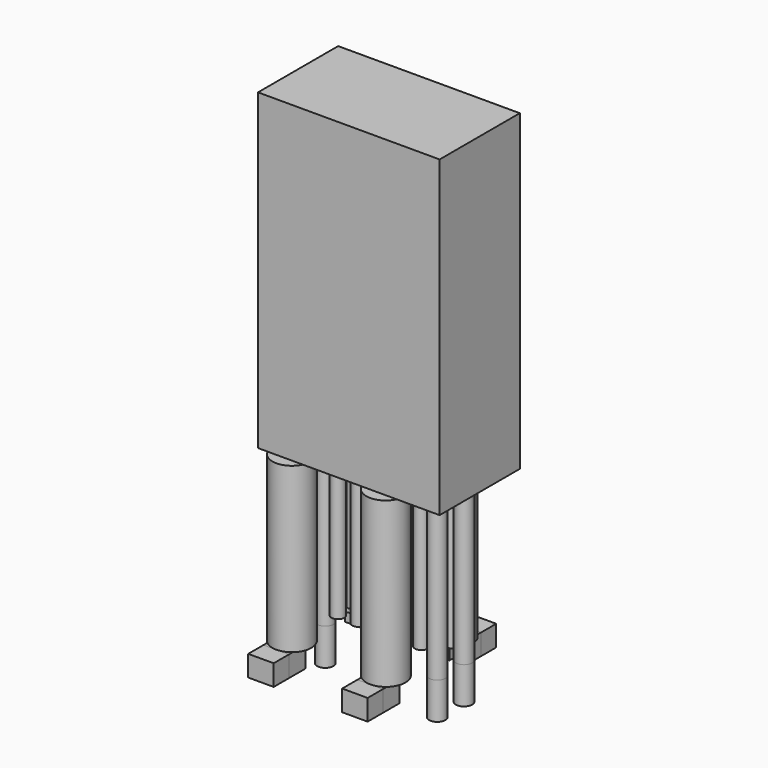
from build123d import *

# Parameters (mm, degrees)
F1_DEPTH = 1.27
F0_W     = 1.5494
F0_H     = 1.161047956
F0_R     = 0.4953
F2_DEPTH = 2.2352
F0_R_2   = 1.18745
F3_DEPTH = 9.9822
F4_DEPTH = 1.27
F5_DEPTH = 1.27
F6_START = 0.9906
F0_R_3   = 0.3937
F6_DEPTH = 8.9916
F8_DEPTH = 19.05
F9_DEPTH = 9.9822


with BuildPart() as f1:
    # F0 (on Top) → F1 (new body)
    with BuildSketch(Plane.XY):
        with BuildLine():
            ThreePointArc((-0.1226388703, 3.7211), (0, 3.72745), (0.1226388703, 3.7211))
            Line((0.1226388703, 3.7211), (0.7747, 3.7211))
            Line((0.7747, 3.7211), (0.7747, 4.882147956))
            Line((0.7747, 4.882147956), (-0.7747, 4.882147956))
            Line((-0.7747, 4.882147956), (-0.7747, 3.7211))
            Line((-0.7747, 3.7211), (-0.1226388703, 3.7211))
        make_face()
    extrude(amount=-F1_DEPTH)


with BuildPart() as f1b:
    # F0 (on Top) → F1, piece 2 (new body)
    with BuildSketch(Plane.XY):
        with BuildLine():
            ThreePointArc((5.5923611297, 3.7211), (5.715, 3.72745), (5.8376388703, 3.7211))
            Line((5.8376388703, 3.7211), (6.4897, 3.7211))
            Line((6.4897, 3.7211), (6.4897, 4.882147956))
            Line((6.4897, 4.882147956), (4.9403, 4.882147956))
            Line((4.9403, 4.882147956), (4.9403, 3.7211))
            Line((4.9403, 3.7211), (5.5923611297, 3.7211))
        make_face()
    extrude(amount=-F1_DEPTH)


with BuildPart() as f1c:
    # F0 (on Top) → F1, piece 3 (new body)
    with BuildSketch(Plane.XY):
        with Locations((0, -4.3142373906)):
            Rectangle(F0_W, F0_H)
    extrude(amount=-F1_DEPTH)


with BuildPart() as f1d:
    # F0 (on Top) → F1, piece 4 (new body)
    with BuildSketch(Plane.XY):
        with Locations((5.715, -4.3142373906)):
            Rectangle(F0_W, F0_H)
    extrude(amount=-F1_DEPTH)


with BuildPart() as f2:
    # F0 (on Top) → F2 (new body)
    with BuildSketch(Plane.XY):
        with Locations((7.62, -1.016)):
            Circle(F0_R)
    extrude(amount=-F2_DEPTH)


with BuildPart() as f2b:
    # F0 (on Top) → F2, piece 2 (new body)
    with BuildSketch(Plane.XY):
        with Locations((7.62, 1.016)):
            Circle(F0_R)
    extrude(amount=-F2_DEPTH)


with BuildPart() as f2c:
    # F0 (on Top) → F2, piece 3 (new body)
    with BuildSketch(Plane.XY):
        Circle(F0_R)
    extrude(amount=-F2_DEPTH)


with BuildPart() as f3:
    # F0 (on Top) → F3 (new body)
    with BuildSketch(Plane.XY):
        with Locations((0, -2.54)):
            Circle(F0_R_2)
        with Locations((5.715, -2.54)):
            Circle(F0_R_2)
        with BuildLine():
            ThreePointArc((5.5923611297, 3.7211), (4.9198868081, 1.6580518641), (6.90245, 2.54))
            ThreePointArc((6.90245, 2.54), (6.5969481359, 3.3351131919), (5.8376388703, 3.7211))
            Line((5.8376388703, 3.7211), (5.5923611297, 3.7211))
        make_face()
        with BuildLine():
            ThreePointArc((-0.1226388703, 3.7211), (-0.7951131919, 1.6580518641), (1.18745, 2.54))
            ThreePointArc((1.18745, 2.54), (0.8819481359, 3.3351131919), (0.1226388703, 3.7211))
            Line((0.1226388703, 3.7211), (-0.1226388703, 3.7211))
        make_face()
    extrude(amount=F3_DEPTH)


with BuildPart() as f4:
    # F4 (new): a face of the model
    f4_faces = [f1.part.faces().sort_by_distance(p)[0] for p in [
        (0.4486694351, 3.7211, -0.635),
    ]]
    extrude(f4_faces, amount=F4_DEPTH)


with BuildPart() as f4b:
    # F4#2 (new): a face of the model
    f4_2_faces = [f1.part.faces().sort_by_distance(p)[0] for p in [
        (-0.4486694351, 3.7211, -0.635),
    ]]
    extrude(f4_2_faces, amount=F4_DEPTH)


with BuildPart() as f4c:
    # F4#3 (new): a face of the model
    f4_3_faces = [f1b.part.faces().sort_by_distance(p)[0] for p in [
        (5.2663305649, 3.7211, -0.635),
    ]]
    extrude(f4_3_faces, amount=F4_DEPTH)


with BuildPart() as f4d:
    # F4#4 (new): a face of the model
    f4_4_faces = [f1b.part.faces().sort_by_distance(p)[0] for p in [
        (6.1636694351, 3.7211, -0.635),
    ]]
    extrude(f4_4_faces, amount=F4_DEPTH)


with BuildPart() as f5:
    # F5 (new): a face of the model
    f5_faces = [f1c.part.faces().sort_by_distance(p)[0] for p in [
        (0, -3.7337134127, -0.635),
    ]]
    extrude(f5_faces, amount=F5_DEPTH)


with BuildPart() as f5b:
    # F5#2 (new): a face of the model
    f5_2_faces = [f1d.part.faces().sort_by_distance(p)[0] for p in [
        (5.715, -3.7337134127, -0.635),
    ]]
    extrude(f5_2_faces, amount=F5_DEPTH)


with BuildPart() as f6:
    # F0 (on Top) → F6 (new body)
    with BuildSketch(Plane.XY.offset(F6_START)):
        with Locations((3.8102645494, -0.635)):
            Circle(F0_R_3)
    extrude(amount=F6_DEPTH)


with BuildPart() as f6b:
    # F0 (on Top) → F6, piece 2 (new body)
    with BuildSketch(Plane.XY.offset(F6_START)):
        with Locations((3.8102645494, 0.6417604301)):
            Circle(F0_R_3)
    extrude(amount=F6_DEPTH)


with BuildPart() as f6c:
    # F0 (on Top) → F6, piece 3 (new body)
    with BuildSketch(Plane.XY.offset(F6_START)):
        with Locations((2.5402645494, 0.6417604301)):
            Circle(F0_R_3)
    extrude(amount=F6_DEPTH)


with BuildPart() as f6d:
    # F0 (on Top) → F6, piece 4 (new body)
    with BuildSketch(Plane.XY.offset(F6_START)):
        with Locations((2.5402645494, -0.635)):
            Circle(F0_R_3)
    extrude(amount=F6_DEPTH)


with BuildPart() as f6e:
    # F0 (on Top) → F6, piece 5 (new body)
    with BuildSketch(Plane.XY.offset(F6_START)):
        with Locations((1.2702645494, -0.635)):
            Circle(F0_R_3)
    extrude(amount=F6_DEPTH)


with BuildPart() as f6f:
    # F0 (on Top) → F6, piece 6 (new body)
    with BuildSketch(Plane.XY.offset(F6_START)):
        with Locations((1.2702645494, 0.635)):
            Circle(F0_R_3)
    extrude(amount=F6_DEPTH)


with BuildPart() as f6g:
    # F0 (on Top) → F6, piece 7 (new body)
    with BuildSketch(Plane.XY.offset(F6_START)):
        with Locations((5.0802645494, -0.635)):
            Circle(F0_R_3)
    extrude(amount=F6_DEPTH)


with BuildPart() as f6h:
    # F0 (on Top) → F6, piece 8 (new body)
    with BuildSketch(Plane.XY.offset(F6_START)):
        with Locations((5.0802645494, 0.6417604301)):
            Circle(F0_R_3)
    extrude(amount=F6_DEPTH)


with BuildPart() as f6i:
    # F0 (on Top) → F6, piece 9 (new body)
    with BuildSketch(Plane.XY.offset(F6_START)):
        with Locations((6.3502645494, 0.6417604301)):
            Circle(F0_R_3)
    extrude(amount=F6_DEPTH)


with BuildPart() as f6j:
    # F0 (on Top) → F6, piece 10 (new body)
    with BuildSketch(Plane.XY.offset(F6_START)):
        with Locations((6.3502645494, -0.635)):
            Circle(F0_R_3)
    extrude(amount=F6_DEPTH)


with BuildPart() as f8:
    # F7 (on face) → F8 (new body)
    with BuildSketch(Plane.XY.offset(9.9822)):
        with BuildLine():
            Line((9.39165, -3.048), (9.39165, 3.048))
            Line((9.39165, 3.048), (1.0733002853, 3.048))
            ThreePointArc((1.0733002853, 3.048), (0, 1.35255), (-1.0733002853, 3.048))
            Line((-1.0733002853, 3.048), (-1.65735, 3.048))
            Line((-1.65735, 3.048), (-1.65735, -3.048))
            Line((-1.65735, -3.048), (9.39165, -3.048))
        make_face()
        with BuildLine():
            ThreePointArc((-1.0733002853, 3.048), (0, 1.35255), (1.0733002853, 3.048))
            Line((1.0733002853, 3.048), (-1.0733002853, 3.048))
        make_face()
    extrude(amount=F8_DEPTH)


with BuildPart() as f9:
    # F0 (on Top) → F9 (new body)
    with BuildSketch(Plane.XY):
        with Locations((7.62, 1.016)):
            Circle(F0_R)
    extrude(amount=F9_DEPTH)


with BuildPart() as f9b:
    # F0 (on Top) → F9, piece 2 (new body)
    with BuildSketch(Plane.XY):
        with Locations((7.62, -1.016)):
            Circle(F0_R)
    extrude(amount=F9_DEPTH)


with BuildPart() as f9c:
    # F0 (on Top) → F9, piece 3 (new body)
    with BuildSketch(Plane.XY):
        Circle(F0_R)
    extrude(amount=F9_DEPTH)


solid = Compound([f1.part, f1b.part, f1c.part, f1d.part, f2.part, f2b.part, f2c.part, f3.part, f4.part, f4b.part, f4c.part, f4d.part, f5.part, f5b.part, f6.part, f6b.part, f6c.part, f6d.part, f6e.part, f6f.part, f6g.part, f6h.part, f6i.part, f6j.part, f8.part, f9.part, f9b.part, f9c.part])
